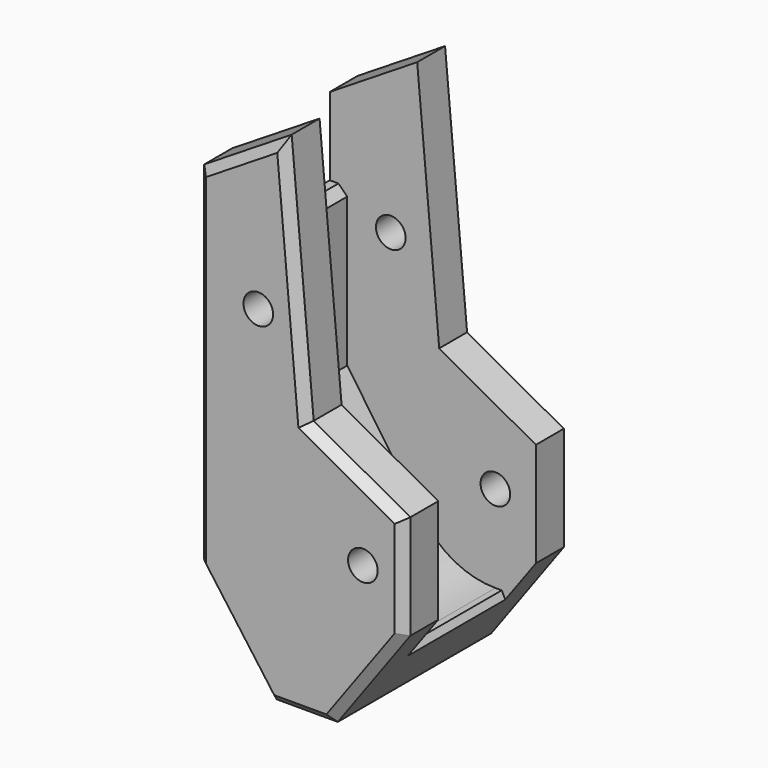
from build123d import *

# Parameters (mm, degrees)
PAD009_DEPTH    = 14
SKETCH008_R     = 1.7
PAD008_DEPTH    = 24
CHAMFER005_SIZE = 1


with BuildPart() as pad009:
    # Sketch009 → Pad009 (new body)
    with BuildSketch(Plane(origin=(0, 33, 0), x_dir=(-1, 0, 0), z_dir=(0, 1, 0))):
        with BuildLine():
            ThreePointArc((89.000023, -13), (93.632628, -11.86221), (97.21105, -8.707771))
            Line((97.21105, -8.707771), (106, 3.935782))
            Line((106, 3.935782), (106, 22))
            Line((106, 22), (112.578117, 22))
            Line((112.578117, 22), (112.578117, 42.659393))
            Line((112.578117, 42.659393), (77.159645, 42.659393))
            Line((77.159645, 42.659393), (77.159645, -13))
            Line((77.159645, -13), (89.000023, -13))
        make_face()
    extrude(amount=-PAD009_DEPTH)


with BuildPart() as clone_of_foot:
    # Sketch008 → Pad008 (new body)
    with BuildSketch(Plane(origin=(0, 14, 0), x_dir=(-1, 0, 0), z_dir=(0, 1, 0))):
        Polygon((84.351819, 2.970513), (95.443832, 9.10709), (97.968148, 37.19022), (108, 30.921623), (108, -9), (99.675909, -20.407844), (92.675909, -20.407844), (84.351819, -9), align=None)
        with Locations((101, 19)):
            Circle(SKETCH008_R, mode=Mode.SUBTRACT)
        with Locations((89, -3)):
            Circle(SKETCH008_R, mode=Mode.SUBTRACT)
    extrude(amount=PAD008_DEPTH)

    # Cut014: cut Pad009
    add(pad009.part, mode=Mode.SUBTRACT)

    # Chamfer005
    chamfer005_edges = [clone_of_foot.edges().sort_by_distance(p)[0] for p in [
        (-89.897825, 14, 6.038802),
        (-96.70599, 14, 23.148655),
        (-102.984074, 14, 34.055922),
        (-108, 14, 10.960812),
        (-103.837955, 14, -14.703922),
        (-96.175909, 14, -20.407844),
        (-88.513864, 14, -14.703922),
        (-84.351819, 14, -3.014744),
        (-108, 38, 10.960812),
        (-103.837955, 38, -14.703922),
        (-96.175909, 38, -20.407844),
        (-87.270544, 26, -13),
        (-88.513864, 38, -14.703922),
        (-106, 26, 22),
        (-89.897825, 38, 6.038802),
        (-96.70599, 38, 23.148655),
        (-102.984074, 38, 34.055922),
        (-84.351819, 38, -3.014744),
    ]]
    chamfer(chamfer005_edges, length=CHAMFER005_SIZE)


with BuildPart() as part_mirroring019:
    # Part__Mirroring019: instance of Clone of foot
    add(clone_of_foot.part.mirror(Plane(origin=(0, 0, 0), x_dir=(1, 0, 0), z_dir=(0, 1, 0))))


solid = part_mirroring019.part
